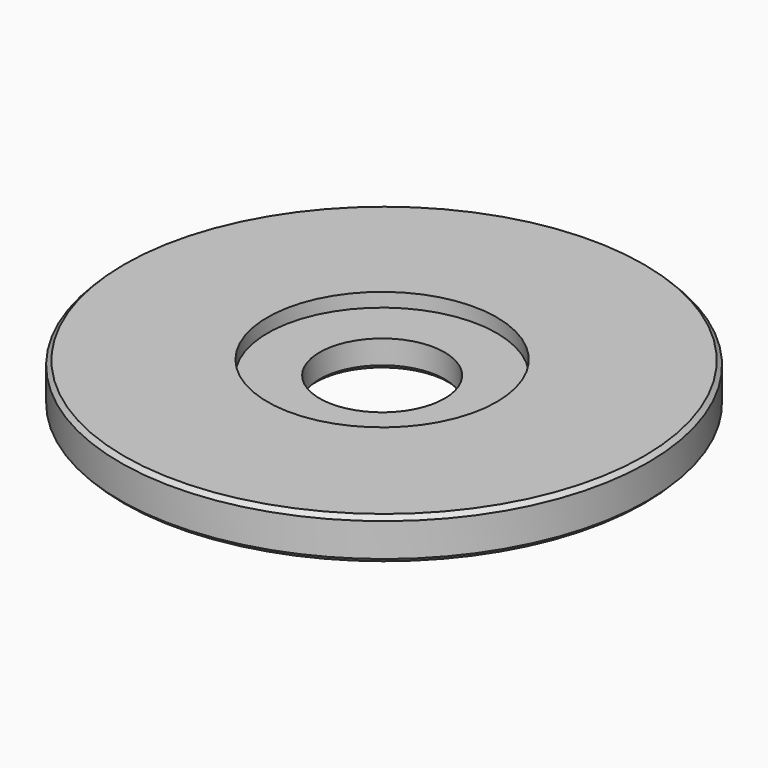
from build123d import *

# Parameters (mm, degrees)
SKETCH068_R     = 19
PAD025_DEPTH    = 3
SKETCH069_R     = 4.5
POCKET042_DEPTH = 3.001
CHAMFER029_SIZE = 0.3
CHAMFER030_SIZE = 0.3
SKETCH070_R     = 8.25
POCKET043_DEPTH = 1


with BuildPart() as part:
    # Sketch068 → Pad025 (new body)
    with BuildSketch(Plane.XY):
        with Locations((0.140173, 0)):
            Circle(SKETCH068_R)
    extrude(amount=PAD025_DEPTH)

    # Sketch069 (on Face2 of Pad025) → Pocket042 (cut, through all)
    with BuildSketch(Plane(origin=(0, 0, 0), x_dir=(1, 0, 0), z_dir=(0, 0, -1))):
        Circle(SKETCH069_R)
    extrude(amount=-POCKET042_DEPTH, mode=Mode.SUBTRACT)

    # Chamfer029
    chamfer029_edges = [part.edges().sort_by_distance(p)[0] for p in [
        (-4.5, 0, 0),
        (-4.5, 0, 3),
    ]]
    chamfer(chamfer029_edges, length=CHAMFER029_SIZE)

    # Chamfer030
    chamfer030_edges = [part.edges().sort_by_distance(p)[0] for p in [
        (-18.859827, 0, 0),
        (-18.859827, 0, 3),
    ]]
    chamfer(chamfer030_edges, length=CHAMFER030_SIZE)

    # Sketch070 (on Face8 of Chamfer030) → Pocket043 (cut)
    with BuildSketch(Plane.XY.offset(3)):
        Circle(SKETCH070_R)
    extrude(amount=-POCKET043_DEPTH, mode=Mode.SUBTRACT)


solid = part.part
